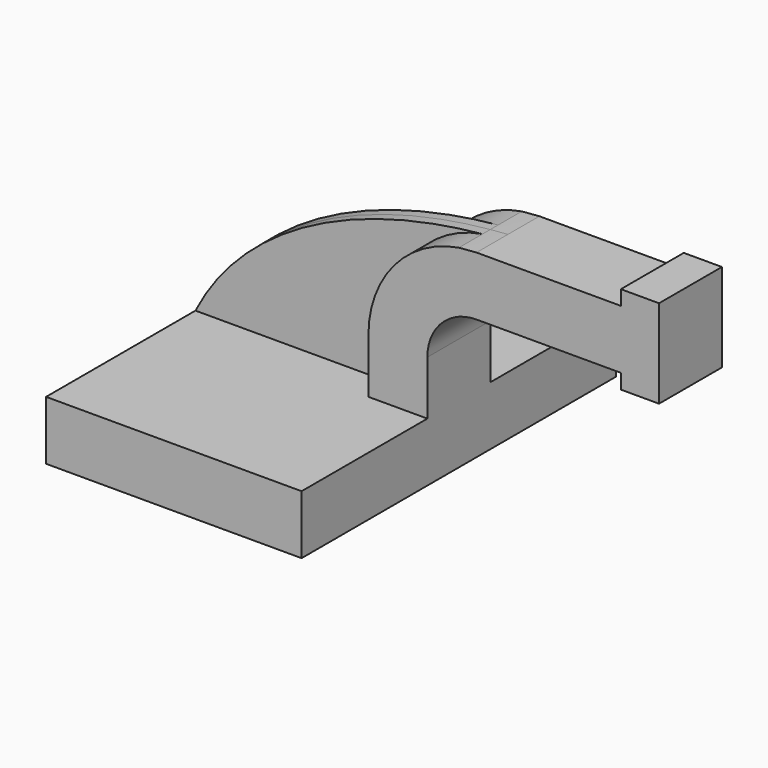
from build123d import *

# Parameters (mm, degrees)
F1_DEPTH = 63.5
F0_W     = 38.4694138315
F0_H     = 19.05
F2_DEPTH = 12.7
F3_DEPTH = 3.175


with BuildPart() as f1:
    # F0 (on Front) → F1 (new body, symmetric)
    with BuildSketch(Plane.XZ):
        Polygon((-41.275, -9.525), (41.275, -9.525), (41.275, 9.525), (22.225, 9.525), (-41.275, 9.525), align=None)
    extrude(amount=F1_DEPTH, both=True)

    # F0 (on Front) → F2 (join, symmetric)
    with BuildSketch(Plane.XZ):
        with BuildLine():
            Line((22.225, 9.525), (41.275, 9.525))
            Line((41.275, 9.525), (41.275, 27.0002))
            ThreePointArc((41.275, 27.0002), (45.9246798487, 38.2255201513), (57.15, 42.8752))
            Line((57.15, 42.8752), (65.3250142932, 42.8752))
            Line((65.3250142932, 42.8752), (65.3250142932, 61.9252))
            Line((65.3250142932, 61.9252), (57.15, 61.9252))
            add(Edge.make_bspline(
                [(51.4572367621, 61.4581174025), (53.3370613896, 61.6402112434), (55.2348987126, 61.7960082111), (57.15, 61.9252)],
                knots=[106.9298065105, 106.9298065105, 106.9298065105, 106.9298065105, 111.5045361635, 111.5045361635, 111.5045361635, 111.5045361635], degree=3))
            ThreePointArc((51.4572367621, 61.4581174025), (30.517544414, 49.593737449), (22.225, 27.0002))
            Line((22.225, 27.0002), (22.225, 9.525))
        make_face()
        Polygon((103.7944281247, 61.9252), (103.7944281247, 42.8752), (103.7944281247, 38.1), (116.1250142932, 38.1), (116.1250142932, 66.675), (103.7944281247, 66.675), align=None)
        with Locations((84.559721209, 52.4002)):
            Rectangle(F0_W, F0_H)
    extrude(amount=F2_DEPTH, both=True)

    # F0 (on Front) → F3 (join, symmetric)
    with BuildSketch(Plane.XZ):
        with BuildLine():
            add(Edge.make_bspline(
                [(-41.275, 9.525), (-26.5797272303, 38.5784325229), (7.5181848531, 57.2018529553), (51.4572367621, 61.4581174025)],
                knots=[0, 0, 0, 0, 106.9298065105, 106.9298065105, 106.9298065105, 106.9298065105], degree=3))
            Line((-41.275, 9.525), (22.225, 9.525))
            Line((22.225, 9.525), (22.225, 27.0002))
            ThreePointArc((22.225, 27.0002), (30.517544414, 49.593737449), (51.4572367621, 61.4581174025))
        make_face()
    extrude(amount=F3_DEPTH, both=True)


solid = f1.part
